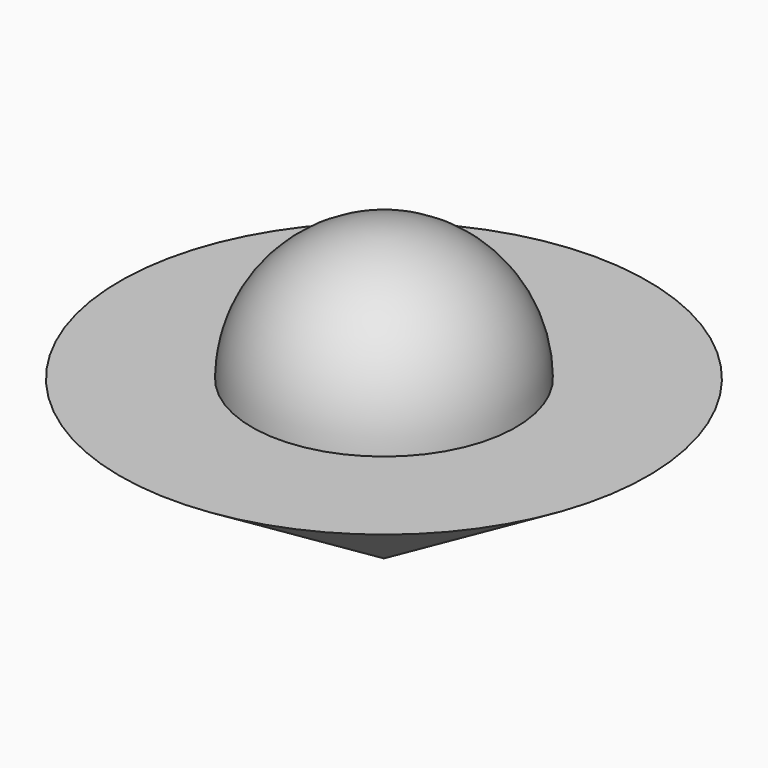
from build123d import *


with BuildPart() as f1:
    # F0 (on Right) → F1 (revolve)
    with BuildSketch(Plane.YZ):
        Polygon((0, 15), (0, 0), (25, 15), align=None)
    revolve(axis=Axis((0, 0, 7.5), (0, 0, 1)))

    # F2 (on Right) → F3 (revolve)
    with BuildSketch(Plane.YZ):
        with BuildLine():
            Line((0, 27.5), (0, 2.5))
            ThreePointArc((0, 2.5), (8.8388347648, 6.1611652352), (12.5, 15))
            ThreePointArc((12.5, 15), (8.8388347648, 23.8388347648), (0, 27.5))
        make_face()
    revolve(axis=Axis((0, 0, 24.7500017285), (0, 0, 1)))


solid = f1.part
